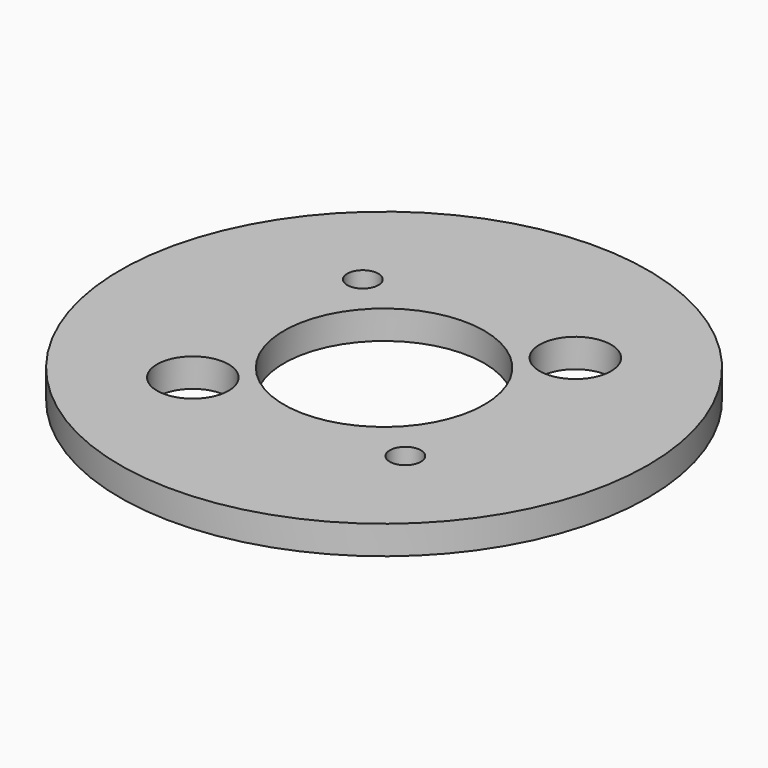
from build123d import *

# Parameters (mm, degrees)
F0_R     = 29.27858
F0_R_2   = 3.96875
F0_R_3   = 1.7272
F0_R_4   = 11.1125
F1_DEPTH = 3.175


with BuildPart() as f1:
    # F0 (on Top) → F1 (new body)
    with BuildSketch(Plane.XY):
        Circle(F0_R)
        with Locations((-11.786591, -11.786591)):
            Circle(F0_R_2, mode=Mode.SUBTRACT)
        with Locations((11.786591, -11.786591)):
            Circle(F0_R_3, mode=Mode.SUBTRACT)
        with Locations((-11.786591, 11.786591)):
            Circle(F0_R_3, mode=Mode.SUBTRACT)
        Circle(F0_R_4, mode=Mode.SUBTRACT)
        with Locations((11.786591, 11.786591)):
            Circle(F0_R_2, mode=Mode.SUBTRACT)
    extrude(amount=F1_DEPTH)


solid = f1.part
